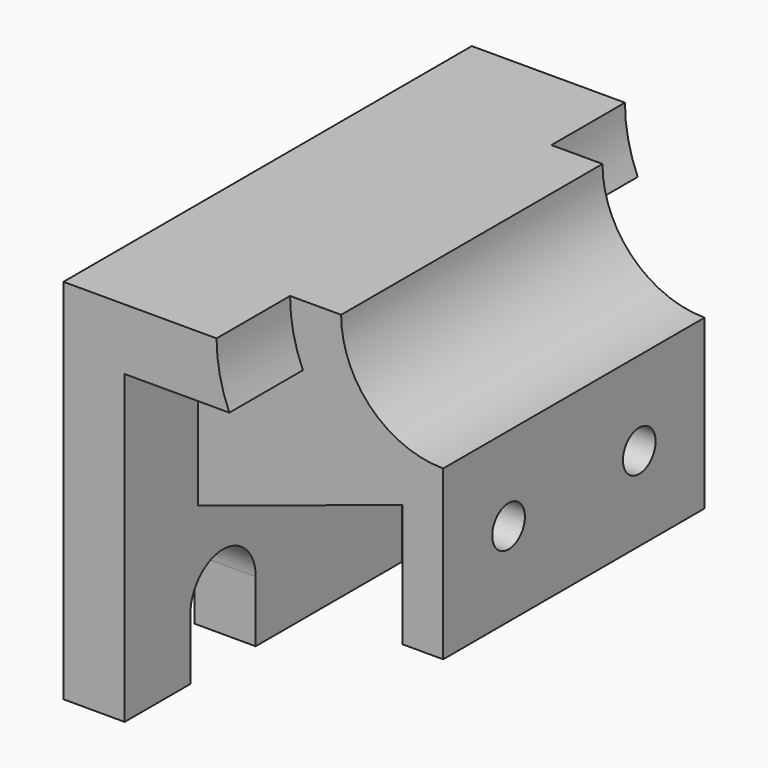
from build123d import *

# Parameters (mm, degrees)
F1_DEPTH = 62.5
F2_W     = 20
F2_H     = 15
F3_DEPTH = 15.001
F4_DEPTH = 40
F5_R     = 5
F6_DEPTH = 15


with BuildPart() as f1:
    # F0 (on Front) → F1 (new body, symmetric)
    with BuildSketch(Plane.XZ):
        Polygon((-60, -15), (-75, -15), (-75, -90), (-60, -90), (-60, -52.5), align=None)
        with BuildLine():
            Line((-37.5, 0), (-75, 0))
            Line((-75, 0), (-75, -15))
            Line((-75, -15), (-60, -15))
            Line((-60, -15), (-34.3693177122, -15))
            ThreePointArc((-34.3693177122, -15), (-36.7089867349, -7.6616116383), (-37.5, 0))
        make_face()
    extrude(amount=F1_DEPTH, both=True)

    # F2 (on face) → F3 (cut, through all)
    with BuildSketch(Plane.YZ.offset(-60)):
        with Locations((32.4, -82.5)):
            Rectangle(F2_W, F2_H)
        with BuildLine():
            Line((22.4, -75), (42.4, -75))
            ThreePointArc((42.4, -75), (32.4, -65), (22.4, -75))
        make_face()
        with Locations((-32.4, -82.5)):
            Rectangle(F2_W, F2_H)
        with BuildLine():
            Line((-42.4, -75), (-22.4, -75))
            ThreePointArc((-22.4, -75), (-32.4, -65), (-42.4, -75))
        make_face()
    extrude(amount=-F3_DEPTH, mode=Mode.SUBTRACT)

    # F0 (on Front) → F4 (join, symmetric)
    with BuildSketch(Plane.XZ):
        with BuildLine():
            Line((-34.3693177122, -15), (-60, -15))
            Line((-60, -15), (-60, -52.5))
            Line((-60, -52.5), (-10, -36.142080737))
            ThreePointArc((-10, -36.142080737), (-24.5744986324, -28.3256776965), (-34.3693177122, -15))
        make_face()
        with BuildLine():
            Line((-20, -15), (-34.3693177122, -15))
            ThreePointArc((-34.3693177122, -15), (-24.5744986324, -28.3256776965), (-10, -36.142080737))
            ThreePointArc((-10, -36.142080737), (-5.0458880468, -37.1589694935), (0, -37.5))
            Line((0, -37.5), (0, -25))
            ThreePointArc((0, -25), (-11.1803398875, -22.360679775), (-20, -15))
        make_face()
        with BuildLine():
            ThreePointArc((0, -37.5), (-5.0458880468, -37.1589694935), (-10, -36.142080737))
            Line((-10, -36.142080737), (-10, -66.142080737))
            Line((-10, -66.142080737), (0, -66.142080737))
            Line((0, -66.142080737), (0, -37.5))
        make_face()
        with BuildLine():
            Line((-25, 0), (-37.5, 0))
            ThreePointArc((-37.5, 0), (-36.7089867349, -7.6616116383), (-34.3693177122, -15))
            Line((-34.3693177122, -15), (-20, -15))
            ThreePointArc((-20, -15), (-23.7170824513, -7.9056941504), (-25, 0))
        make_face()
    extrude(amount=F4_DEPTH, both=True)

    # F5 (on face) → F6 (cut)
    with BuildSketch(Plane.YZ):
        with Locations((-20, -45.5710403685)):
            Circle(F5_R)
        with Locations((20, -45.5710403685)):
            Circle(F5_R)
    extrude(amount=-F6_DEPTH, mode=Mode.SUBTRACT)


solid = f1.part
